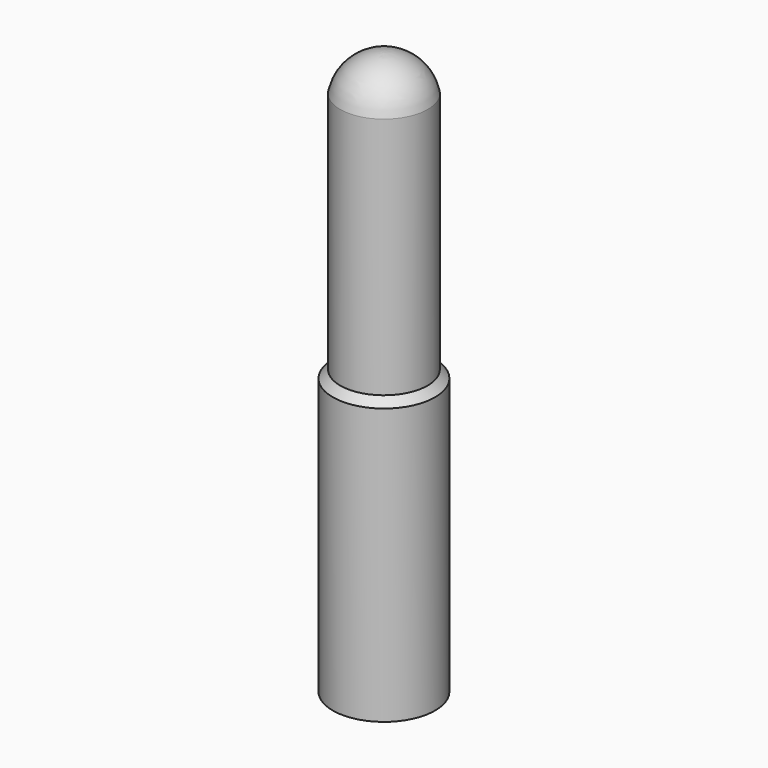
from build123d import *


with BuildPart() as f1:
    # F0 (on Front) → F1 (revolve)
    with BuildSketch(Plane.XZ):
        with BuildLine():
            Line((-2.75, 0), (-2.5, 0))
            Line((-2.5, 0), (-2.5, 14.83))
            Line((-2.5, 14.83), (-2.1, 15.25))
            Line((-2.1, 15.25), (-2.1, 28.32))
            ThreePointArc((-2.1, 28.32), (-1.346319, 29.531889), (0, 30.005318))
            Line((0, 30.005318), (0, 30.25))
            ThreePointArc((0, 30.25), (-1.520477, 29.705658), (-2.35, 28.32))
            Line((-2.35, 28.32), (-2.35, 15.67))
            Line((-2.35, 15.67), (-2.35, 15.25))
            Line((-2.35, 15.25), (-2.75, 14.83))
            Line((-2.75, 14.83), (-2.75, 0))
        make_face()
    revolve(axis=Axis((0, 0, 15.125), (0, 0, 1)))


solid = f1.part
